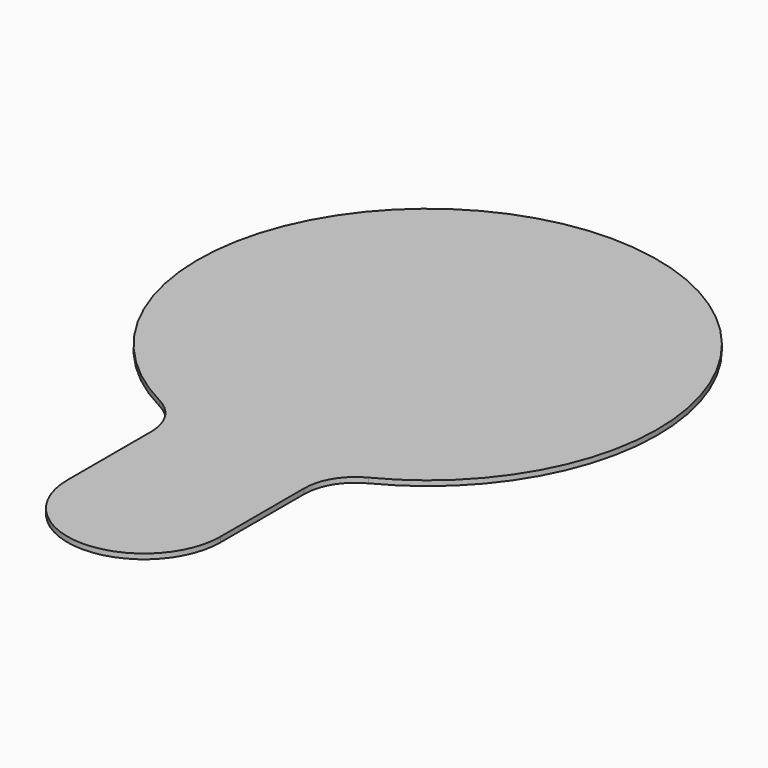
from build123d import *

# Parameters (mm, degrees)
F1_DEPTH = 1


with BuildPart() as f1:
    # F0 (on Top) → F1 (new body)
    with BuildSketch(Plane.XY):
        with BuildLine():
            ThreePointArc((15, -48.989795), (16.471971, -43.767465), (20.454545, -40.082559))
            ThreePointArc((20.454545, -40.082559), (0, 45), (-20.454545, -40.082559))
            ThreePointArc((-20.454545, -40.082559), (-16.471971, -43.767465), (-15, -48.989795))
            Line((-15, -48.989795), (-15, -69.47393))
            ThreePointArc((-15, -69.47393), (0, -84.47393), (15, -69.47393))
            Line((15, -69.47393), (15, -48.989795))
        make_face()
    extrude(amount=F1_DEPTH)


solid = f1.part
